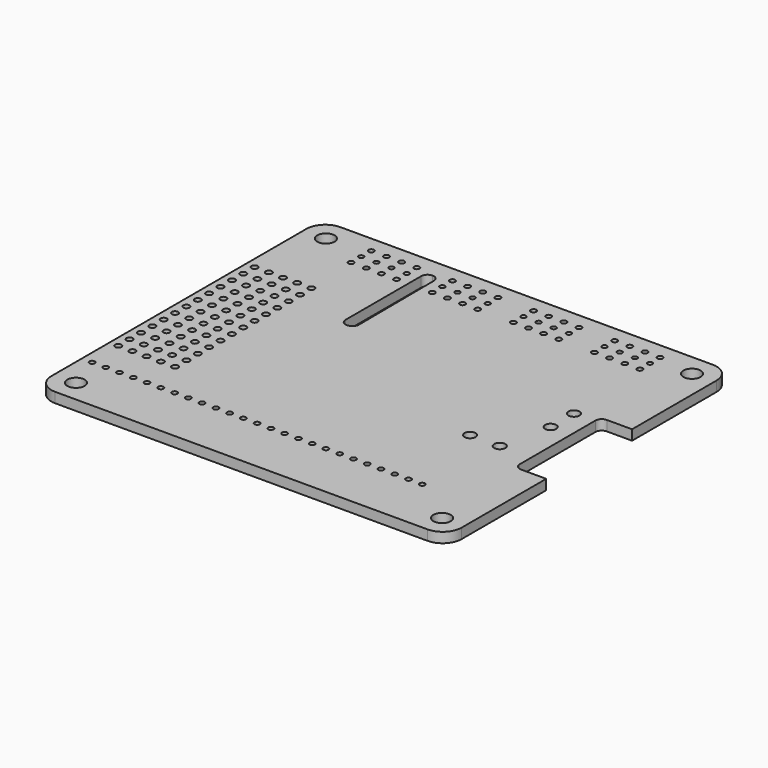
from build123d import *

# Parameters (mm, degrees)
F0_W      = 65
F0_H      = 56.5
F1_DEPTH  = 1.6
F2_R      = 3
F3_W      = 5
F3_H      = 17
F4_DEPTH  = 1.601
F5_R      = 1
F6_R      = 1.375
F7_DEPTH  = 1.601
F8_R      = 0.5
F8_R_2    = 0.425
F9_DEPTH  = 1.601
F11_DEPTH = 1.601
F12_R     = 1
F13_R     = 0.875
F14_DEPTH = 1.601
F15_R     = 0.435
F15_R_2   = 0.397734
F15_R_3   = 0.433099
F16_DEPTH = 1.601


with BuildPart() as f1:
    # F0 (on Top) → F1 (new body)
    with BuildSketch(Plane.XY):
        Rectangle(F0_W, F0_H)
    extrude(amount=F1_DEPTH)

    # F2
    f2_edges = [f1.edges().sort_by_distance(p)[0] for p in [
        (-32.5, -28.25, 0.8),
        (32.5, -28.25, 0.8),
        (32.5, 28.25, 0.8),
        (-32.5, 28.25, 0.8),
    ]]
    fillet(f2_edges, radius=F2_R)

    # F3 (on face) → F4 (cut, through all)
    with BuildSketch(Plane.XY.offset(1.6)):
        with Locations((30, 0)):
            Rectangle(F3_W, F3_H)
    extrude(amount=-F4_DEPTH, mode=Mode.SUBTRACT)

    # F5
    f5_edges = [f1.edges().sort_by_distance(p)[0] for p in [
        (27.5, -8.5, 0.8),
        (27.5, 8.5, 0.8),
    ]]
    fillet(f5_edges, radius=F5_R)

    # F6 (on face) → F7 (cut, through all)
    with BuildSketch(Plane.XY.offset(1.6)):
        with Locations((-29, -24.75)):
            Circle(F6_R)
        with Locations((29, -24.75)):
            Circle(F6_R)
        with Locations((-29, 24.75)):
            Circle(F6_R)
        with Locations((29, 24.75)):
            Circle(F6_R)
    extrude(amount=-F7_DEPTH, mode=Mode.SUBTRACT)

    # F8 (on face) → F9 (cut, through all)
    with BuildSketch(Plane.XY.offset(1.6)):
        with Locations((-31.1, -13.75)):
            Circle(F8_R)
        with Locations((-31.1, -11.5)):
            Circle(F8_R)
        with Locations((-31.1, -9.25)):
            Circle(F8_R)
        with Locations((-31.1, -7)):
            Circle(F8_R)
        with Locations((-31.1, -4.75)):
            Circle(F8_R)
        with Locations((-31.1, -2.5)):
            Circle(F8_R)
        with Locations((-31.1, -0.25)):
            Circle(F8_R)
        with Locations((-31.1, 2)):
            Circle(F8_R)
        with Locations((-31.1, 4.25)):
            Circle(F8_R)
        with Locations((-31.1, 6.5)):
            Circle(F8_R)
        with Locations((-31.1, 8.75)):
            Circle(F8_R)
        with Locations((-31.1, 11)):
            Circle(F8_R)
        with Locations((-31.1, 13.25)):
            Circle(F8_R)
        with Locations((-28.85, -13.75)):
            Circle(F8_R)
        with Locations((-28.85, -11.5)):
            Circle(F8_R)
        with Locations((-28.85, -9.25)):
            Circle(F8_R)
        with Locations((-28.85, -7)):
            Circle(F8_R)
        with Locations((-28.85, -4.75)):
            Circle(F8_R)
        with Locations((-28.85, -2.5)):
            Circle(F8_R)
        with Locations((-28.85, -0.25)):
            Circle(F8_R)
        with Locations((-28.85, 2)):
            Circle(F8_R)
        with Locations((-28.85, 4.25)):
            Circle(F8_R)
        with Locations((-28.85, 6.5)):
            Circle(F8_R)
        with Locations((-28.85, 8.75)):
            Circle(F8_R)
        with Locations((-28.85, 11)):
            Circle(F8_R)
        with Locations((-28.85, 13.25)):
            Circle(F8_R)
        with Locations((-26.6, -13.75)):
            Circle(F8_R)
        with Locations((-26.6, -11.5)):
            Circle(F8_R)
        with Locations((-26.6, -9.25)):
            Circle(F8_R)
        with Locations((-26.6, -7)):
            Circle(F8_R)
        with Locations((-26.6, -4.75)):
            Circle(F8_R)
        with Locations((-26.6, -2.5)):
            Circle(F8_R)
        with Locations((-26.6, -0.25)):
            Circle(F8_R)
        with Locations((-26.6, 2)):
            Circle(F8_R)
        with Locations((-26.6, 4.25)):
            Circle(F8_R)
        with Locations((-26.6, 6.5)):
            Circle(F8_R)
        with Locations((-26.6, 8.75)):
            Circle(F8_R)
        with Locations((-26.6, 11)):
            Circle(F8_R)
        with Locations((-26.6, 13.25)):
            Circle(F8_R)
        with Locations((-24.35, -13.75)):
            Circle(F8_R)
        with Locations((-24.35, -11.5)):
            Circle(F8_R)
        with Locations((-24.35, -9.25)):
            Circle(F8_R)
        with Locations((-24.35, -7)):
            Circle(F8_R)
        with Locations((-24.35, -4.75)):
            Circle(F8_R)
        with Locations((-24.35, -2.5)):
            Circle(F8_R)
        with Locations((-24.35, -0.25)):
            Circle(F8_R)
        with Locations((-24.35, 2)):
            Circle(F8_R)
        with Locations((-24.35, 4.25)):
            Circle(F8_R)
        with Locations((-24.35, 6.5)):
            Circle(F8_R)
        with Locations((-24.35, 8.75)):
            Circle(F8_R)
        with Locations((-24.35, 11)):
            Circle(F8_R)
        with Locations((-24.35, 13.25)):
            Circle(F8_R)
        with Locations((-22.1, -13.75)):
            Circle(F8_R)
        with Locations((-22.1, -11.5)):
            Circle(F8_R)
        with Locations((-22.1, -9.25)):
            Circle(F8_R)
        with Locations((-22.1, -7)):
            Circle(F8_R)
        with Locations((-22.1, -4.75)):
            Circle(F8_R)
        with Locations((-22.1, -2.5)):
            Circle(F8_R)
        with Locations((-22.1, -0.25)):
            Circle(F8_R)
        with Locations((-22.1, 2)):
            Circle(F8_R)
        with Locations((-22.1, 4.25)):
            Circle(F8_R)
        with Locations((-22.1, 6.5)):
            Circle(F8_R)
        with Locations((-22.1, 8.75)):
            Circle(F8_R)
        with Locations((-22.1, 11)):
            Circle(F8_R)
        with Locations((-22.1, 13.25)):
            Circle(F8_R)
        with Locations((-30.875, -19.225)):
            Circle(F8_R_2)
        with Locations((-28.695, -19.225)):
            Circle(F8_R_2)
        with Locations((-26.515, -19.225)):
            Circle(F8_R_2)
        with Locations((-24.335, -19.225)):
            Circle(F8_R_2)
        with Locations((-22.155, -19.225)):
            Circle(F8_R_2)
        with Locations((-19.975, -19.225)):
            Circle(F8_R_2)
        with Locations((-17.795, -19.225)):
            Circle(F8_R_2)
        with Locations((-15.615, -19.225)):
            Circle(F8_R_2)
        with Locations((-13.435, -19.225)):
            Circle(F8_R_2)
        with Locations((-11.255, -19.225)):
            Circle(F8_R_2)
        with Locations((-9.075, -19.225)):
            Circle(F8_R_2)
        with Locations((-6.895, -19.225)):
            Circle(F8_R_2)
        with Locations((-4.715, -19.225)):
            Circle(F8_R_2)
        with Locations((-2.535, -19.225)):
            Circle(F8_R_2)
        with Locations((-0.355, -19.225)):
            Circle(F8_R_2)
        with Locations((1.825, -19.225)):
            Circle(F8_R_2)
        with Locations((4.005, -19.225)):
            Circle(F8_R_2)
        with Locations((6.185, -19.225)):
            Circle(F8_R_2)
        with Locations((8.365, -19.225)):
            Circle(F8_R_2)
        with Locations((10.545, -19.225)):
            Circle(F8_R_2)
        with Locations((12.725, -19.225)):
            Circle(F8_R_2)
        with Locations((14.905, -19.225)):
            Circle(F8_R_2)
        with Locations((17.085, -19.225)):
            Circle(F8_R_2)
        with Locations((19.265, -19.225)):
            Circle(F8_R_2)
        with Locations((21.445, -19.225)):
            Circle(F8_R_2)
    extrude(amount=-F9_DEPTH, mode=Mode.SUBTRACT)

    # F10 (on face) → F11 (cut, through all)
    with BuildSketch(Plane.XY.offset(1.6)):
        Polygon((-13.5, 25.250059), (-13.5, 8.249941), (-11.37714, 8.250222), (-11.5, 25.249778), align=None)
    extrude(amount=-F11_DEPTH, mode=Mode.SUBTRACT)

    # F12
    f12_edges = [f1.edges().sort_by_distance(p)[0] for p in [
        (-11.37714, 8.250222, 0.8),
        (-13.5, 8.249941, 0.8),
        (-13.5, 25.250059, 0.8),
        (-11.5, 25.249778, 0.8),
    ]]
    fillet(f12_edges, radius=F12_R)

    # F13 (on face) → F14 (cut, through all)
    with BuildSketch(Plane.XY.offset(1.6)):
        with Locations((17.825, -5.23)):
            Circle(F13_R)
        with Locations((22.525, -5.23)):
            Circle(F13_R)
        with Locations((24.25, 2.7)):
            Circle(F13_R)
        with Locations((24.25, 7.3)):
            Circle(F13_R)
    extrude(amount=-F14_DEPTH, mode=Mode.SUBTRACT)

    # F15 (on face) → F16 (cut, through all)
    with BuildSketch(Plane.XY.offset(1.6)):
        with Locations((23.2, 25.678)):
            Circle(F15_R)
        with Locations((23.2, 23.678)):
            Circle(F15_R_2)
        with Locations((23.2, 21.678)):
            Circle(F15_R_3)
        with Locations((20.8, 21.678)):
            Circle(F15_R_3)
        with Locations((20.8, 23.678)):
            Circle(F15_R_2)
        with Locations((20.8, 25.678)):
            Circle(F15_R)
        with Locations((18.4, 21.678)):
            Circle(F15_R_3)
        with Locations((18.4, 23.678)):
            Circle(F15_R_2)
        with Locations((18.4, 25.678)):
            Circle(F15_R)
        with Locations((16, 21.678)):
            Circle(F15_R_3)
        with Locations((16, 23.678)):
            Circle(F15_R_2)
        with Locations((16, 25.678)):
            Circle(F15_R)
        with Locations((3.15, 25.678)):
            Circle(F15_R)
        with Locations((3.15, 23.678)):
            Circle(F15_R_2)
        with Locations((3.15, 21.678)):
            Circle(F15_R_3)
        with Locations((5.55, 25.678)):
            Circle(F15_R)
        with Locations((5.55, 23.678)):
            Circle(F15_R_2)
        with Locations((5.55, 21.678)):
            Circle(F15_R_3)
        with Locations((7.95, 25.678)):
            Circle(F15_R)
        with Locations((7.95, 23.678)):
            Circle(F15_R_2)
        with Locations((7.95, 21.678)):
            Circle(F15_R_3)
        with Locations((10.35, 21.678)):
            Circle(F15_R_3)
        with Locations((10.35, 23.678)):
            Circle(F15_R_2)
        with Locations((10.35, 25.678)):
            Circle(F15_R)
        with Locations((-9.7, 25.678)):
            Circle(F15_R)
        with Locations((-9.7, 23.678)):
            Circle(F15_R_2)
        with Locations((-9.7, 21.678)):
            Circle(F15_R_3)
        with Locations((-7.3, 25.678)):
            Circle(F15_R)
        with Locations((-7.3, 23.678)):
            Circle(F15_R_2)
        with Locations((-7.3, 21.678)):
            Circle(F15_R_3)
        with Locations((-4.9, 25.678)):
            Circle(F15_R)
        with Locations((-4.9, 23.678)):
            Circle(F15_R_2)
        with Locations((-4.9, 21.678)):
            Circle(F15_R_3)
        with Locations((-2.5, 21.678)):
            Circle(F15_R_3)
        with Locations((-2.5, 23.678)):
            Circle(F15_R_2)
        with Locations((-2.5, 25.678)):
            Circle(F15_R)
        with Locations((-22.55, 25.678)):
            Circle(F15_R)
        with Locations((-22.55, 23.678)):
            Circle(F15_R_2)
        with Locations((-22.55, 21.678)):
            Circle(F15_R_3)
        with Locations((-20.15, 25.678)):
            Circle(F15_R)
        with Locations((-20.15, 23.678)):
            Circle(F15_R_2)
        with Locations((-20.15, 21.678)):
            Circle(F15_R_3)
        with Locations((-17.75, 25.678)):
            Circle(F15_R)
        with Locations((-17.75, 23.678)):
            Circle(F15_R_2)
        with Locations((-17.75, 21.678)):
            Circle(F15_R_3)
        with Locations((-15.35, 21.678)):
            Circle(F15_R_3)
        with Locations((-15.35, 23.678)):
            Circle(F15_R_2)
        with Locations((-15.35, 25.678)):
            Circle(F15_R)
    extrude(amount=-F16_DEPTH, mode=Mode.SUBTRACT)


solid = f1.part
